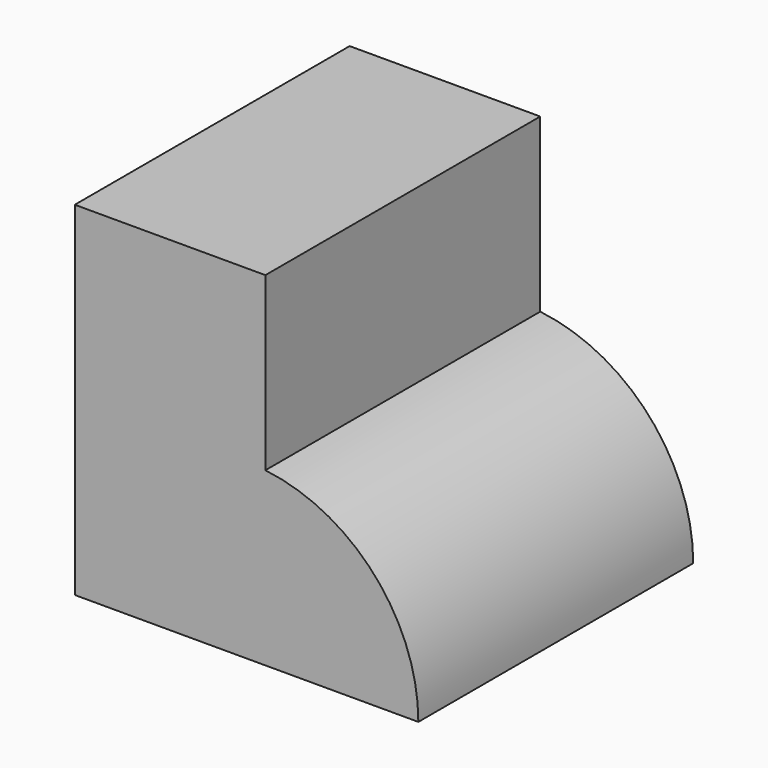
from build123d import *

# Parameters (mm, degrees)
F0_W     = 50.8
F0_H     = 50.8
F1_DEPTH = 50.8
F3_DEPTH = 50.8


with BuildPart() as f1:
    # F0 (on Front) → F1 (new body)
    with BuildSketch(Plane.XZ):
        with Locations((-25.4, 25.4)):
            Rectangle(F0_W, F0_H)
    extrude(amount=F1_DEPTH)

    # F2 (on face) → F3 (cut)
    with BuildSketch(Plane.XZ.offset(50.8)):
        with BuildLine():
            ThreePointArc((-22.619369, 25.4), (-6.474509, 17.005851), (0, 0))
            Line((0, 0), (0, 50.8))
            Line((0, 50.8), (-22.619369, 50.8))
            Line((-22.619369, 50.8), (-22.619369, 25.4))
        make_face()
    extrude(amount=-F3_DEPTH, mode=Mode.SUBTRACT)


solid = f1.part
